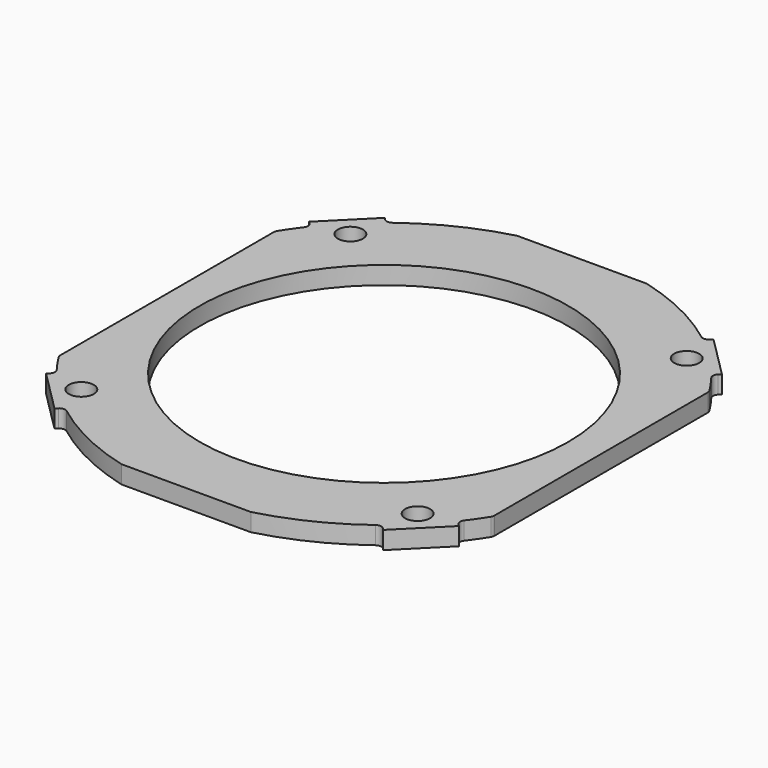
from build123d import *

# Parameters (mm, degrees)
SKETCH001_R   = 31
SKETCH001_R_2 = 2.1
PAD_DEPTH     = 3
FILLET_R      = 1


with BuildPart() as part:
    # Sketch001 → Pad (new body)
    with BuildSketch(Plane.XY):
        with BuildLine():
            Line((-36.5, 22.732136), (-36.5, -22.732136))
            ThreePointArc((-36.5, -22.732136), (-35.172415, -24.736637), (-33.734872, -26.663804))
            Line((-33.734872, -26.663804), (-34.718943, -27.647875))
            Line((-34.718943, -27.647875), (-27.647875, -34.718943))
            Line((-27.647875, -34.718943), (-26.663804, -33.734872))
            ThreePointArc((-26.663804, -33.734872), (-19.180875, -38.484985), (-10.883014, -41.6))
            Line((-10.883014, -41.6), (10.883014, -41.6))
            ThreePointArc((10.883014, -41.6), (19.180875, -38.484985), (26.663804, -33.734872))
            Line((26.663804, -33.734872), (27.647875, -34.718943))
            Line((27.647875, -34.718943), (34.718943, -27.647875))
            Line((34.718943, -27.647875), (33.734872, -26.663804))
            ThreePointArc((33.734872, -26.663804), (35.172415, -24.736637), (36.5, -22.732136))
            Line((36.5, -22.732136), (36.5, 22.732136))
            ThreePointArc((36.5, 22.732136), (35.172415, 24.736637), (33.734872, 26.663804))
            Line((34.718943, 27.647875), (33.734872, 26.663804))
            Line((27.647875, 34.718943), (34.718943, 27.647875))
            Line((26.663804, 33.734872), (27.647875, 34.718943))
            ThreePointArc((26.663804, 33.734872), (19.180875, 38.484985), (10.883014, 41.6))
            Line((10.883014, 41.6), (-10.883014, 41.6))
            ThreePointArc((-10.883014, 41.6), (-19.180875, 38.484985), (-26.663804, 33.734872))
            Line((-27.647875, 34.718943), (-26.663804, 33.734872))
            Line((-34.718943, 27.647875), (-27.647875, 34.718943))
            Line((-33.734872, 26.663804), (-34.718943, 27.647875))
            ThreePointArc((-33.734872, 26.663804), (-35.172415, 24.736637), (-36.5, 22.732136))
        make_face()
        Circle(SKETCH001_R, mode=Mode.SUBTRACT)
        with Locations((-28.284271, 28.284271)):
            Circle(SKETCH001_R_2, mode=Mode.SUBTRACT)
        with Locations((28.284271, 28.284271)):
            Circle(SKETCH001_R_2, mode=Mode.SUBTRACT)
        with Locations((28.284271, -28.284271)):
            Circle(SKETCH001_R_2, mode=Mode.SUBTRACT)
        with Locations((-28.284271, -28.284271)):
            Circle(SKETCH001_R_2, mode=Mode.SUBTRACT)
    extrude(amount=PAD_DEPTH)

    # Fillet
    fillet_edges = [part.edges().sort_by_distance(p)[0] for p in [
        (-26.663804, 33.734872, 1.5),
        (26.663804, 33.734872, 1.5),
        (33.734872, 26.663804, 1.5),
        (26.663804, -33.734872, 1.5),
        (33.734872, -26.663804, 1.5),
        (-26.663804, -33.734872, 1.5),
        (-33.734872, -26.663804, 1.5),
        (-33.734872, 26.663804, 1.5),
        (-36.5, -22.732136, 1.5),
        (-36.5, 22.732136, 1.5),
        (36.5, 22.732136, 1.5),
        (36.5, -22.732136, 1.5),
    ]]
    fillet(fillet_edges, radius=FILLET_R)


solid = part.part
